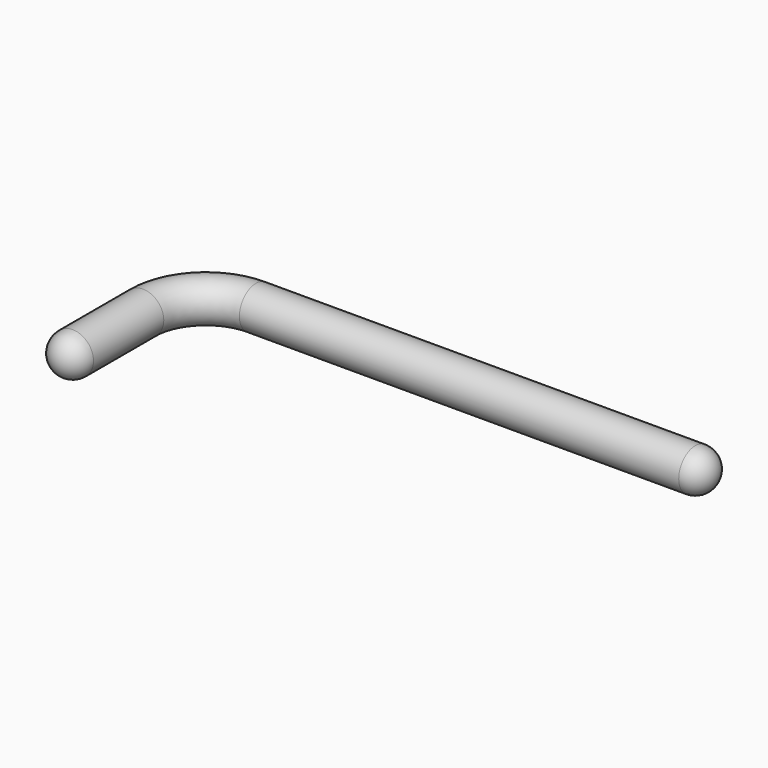
from build123d import *

# Parameters (mm, degrees)
F1_R   = 84.1375
F1_R_2 = 76.2


with BuildPart() as f2:
    # F2: sweep along a path in F0
    with BuildLine(Plane.XY) as f2_path:
        Line((0, 0), (0, 355.6))
        ThreePointArc((0, 355.6), (74.3948775786, 535.2051224214), (254, 609.6))
        Line((254, 609.6), (2032, 609.6))
    # F1 (on Front) → F2 (sweep)
    with BuildSketch(Plane.XZ):
        Circle(F1_R)
        Circle(F1_R_2, mode=Mode.SUBTRACT)
    sweep(path=f2_path.line)

    # F3 (on Top) → F4 (revolve)
    with BuildSketch(Plane.XY):
        with BuildLine():
            Line((-76.2, 0), (-84.1375, 0))
            ThreePointArc((-84.1375, 0), (0, -84.1375), (84.1375, 0))
            Line((84.1375, 0), (76.2, 0))
            ThreePointArc((76.2, 0), (0, -76.2), (-76.2, 0))
        make_face()
    revolve(axis=Axis((0, 0, 0), (1, 0, 0)))

    # F5 (on face) → F6 (revolve)
    with BuildSketch(Plane.YZ.offset(2032)):
        with BuildLine():
            Line((533.4, 0), (609.6, 0))
            Line((609.6, 0), (685.8, 0))
            ThreePointArc((685.8, 0), (609.6, 76.2), (533.4, 0))
        make_face()
        with BuildLine():
            Line((525.4625, 0), (533.4, 0))
            ThreePointArc((533.4, 0), (609.6, 76.2), (685.8, 0))
            Line((685.8, 0), (693.7375, 0))
            ThreePointArc((693.7375, 0), (609.6, 84.1375), (525.4625, 0))
        make_face()
    revolve(axis=Axis((2032, 625.8413642645, 0), (0, 1, 0)))


solid = f2.part
